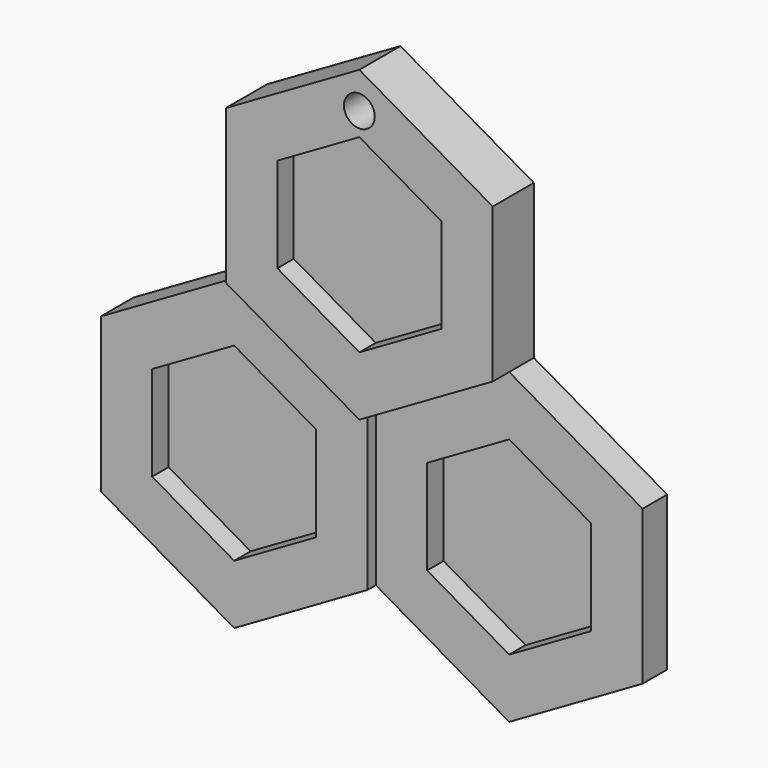
from build123d import *

# Parameters (mm, degrees)
F3_DEPTH  = 6.35
F4_DEPTH  = 3.81
F5_DEPTH  = 5.08
F7_DEPTH  = 2.54
F9_DEPTH  = 2.54
F11_DEPTH = 2.54
F13_DEPTH = 1.27
F15_R     = 1.905
F16_DEPTH = 25.4


with BuildPart() as f3:
    # F0 (on Front) → F3 (new body)
    with BuildSketch(Plane.XZ):
        Polygon((0, 0), (16.497784, 9.525), (16.497784, 28.575), (0, 38.1), (-16.497784, 28.575), (-16.497784, 9.525), align=None)
    extrude(amount=F3_DEPTH)

    # F1 (on Front) → F4 (join)
    with BuildSketch(Plane.XZ):
        Polygon((16.497784, 9.525), (0, 0), (0, -19.05), (16.497784, -28.575), (32.995568, -19.05), (32.995568, 0), align=None)
    extrude(amount=F4_DEPTH)

    # F2 (on Front) → F5 (join)
    with BuildSketch(Plane.XZ):
        Polygon((-32.995568, -19.05), (-16.497784, -28.575), (0, -19.05), (0, 0), (-16.497784, 9.525), (-32.995568, 0), align=None)
    extrude(amount=F5_DEPTH)

    # F6 (on face) → F7 (cut)
    with BuildSketch(Plane.XZ.offset(6.35)):
        Polygon((-10.147784, 24.908826), (-10.147784, 13.191174), (0, 7.332348), (10.147784, 13.191174), (10.147784, 24.908826), (0, 30.767652), align=None)
    extrude(amount=-F7_DEPTH, mode=Mode.SUBTRACT)

    # F8 (on face) → F9 (cut)
    with BuildSketch(Plane.XZ.offset(5.08)):
        Polygon((-16.497784, 2.192652), (-26.645568, -3.666174), (-26.645568, -15.383826), (-16.497784, -21.242652), (-6.35, -15.383826), (-6.35, -3.666174), align=None)
    extrude(amount=-F9_DEPTH, mode=Mode.SUBTRACT)

    # F10 (on face) → F11 (cut)
    with BuildSketch(Plane.XZ.offset(3.81)):
        Polygon((16.497784, 2.192652), (6.35, -3.666174), (6.35, -15.383826), (16.497784, -21.242652), (26.645568, -15.383826), (26.645568, -3.666174), align=None)
    extrude(amount=-F11_DEPTH, mode=Mode.SUBTRACT)

    # F15 (on face) → F16 (cut)
    with BuildSketch(Plane.XZ.offset(6.35)):
        with Locations((0, 33.614568)):
            Circle(F15_R)
    extrude(amount=-F16_DEPTH, mode=Mode.SUBTRACT)


with BuildPart() as f13:
    # F12 (on Front) → F13 (new body)
    with BuildSketch(Plane.XZ):
        Polygon((0, -19.372597), (-7.288163, -23.370054), (0, -30.658217), (7.288163, -23.370054), align=None)
    extrude(amount=F13_DEPTH)


solid = f3.part
